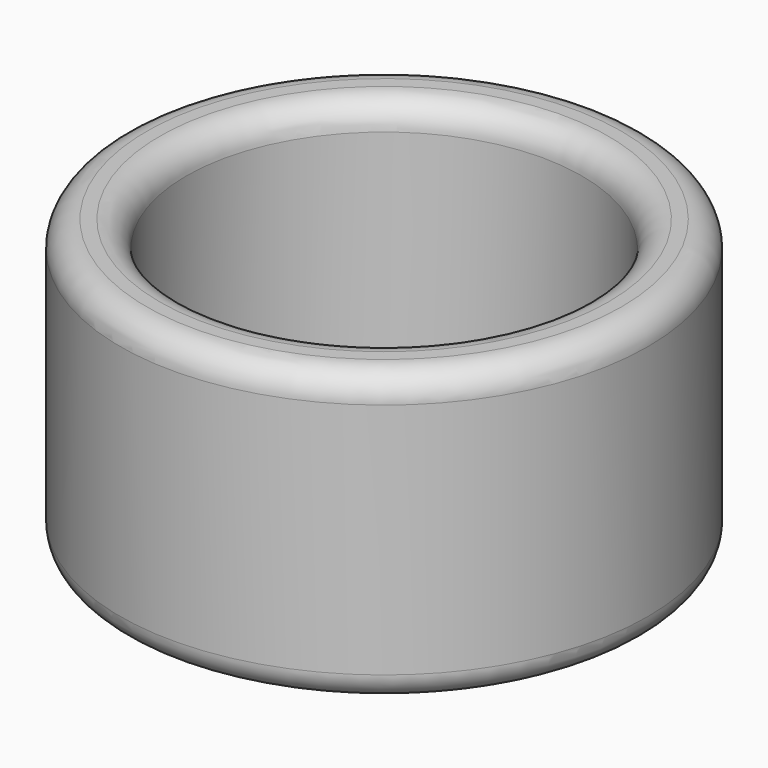
from build123d import *

# Parameters (mm, degrees)
F0_R     = 10
F0_R_2   = 7.5
F1_DEPTH = 11
F2_R     = 1


with BuildPart() as f1:
    # F0 (on Top) → F1 (new body)
    with BuildSketch(Plane.XY):
        Circle(F0_R)
        Circle(F0_R_2, mode=Mode.SUBTRACT)
    extrude(amount=F1_DEPTH)

    # F2
    f2_edges = [f1.edges().sort_by_distance(p)[0] for p in [
        (7.5, 0, 5.5),
        (-7.5, 0, 0),
        (-7.5, 0, 11),
        (-10, 0, 11),
        (-10, 0, 0),
    ]]
    fillet(f2_edges, radius=F2_R)


solid = f1.part
